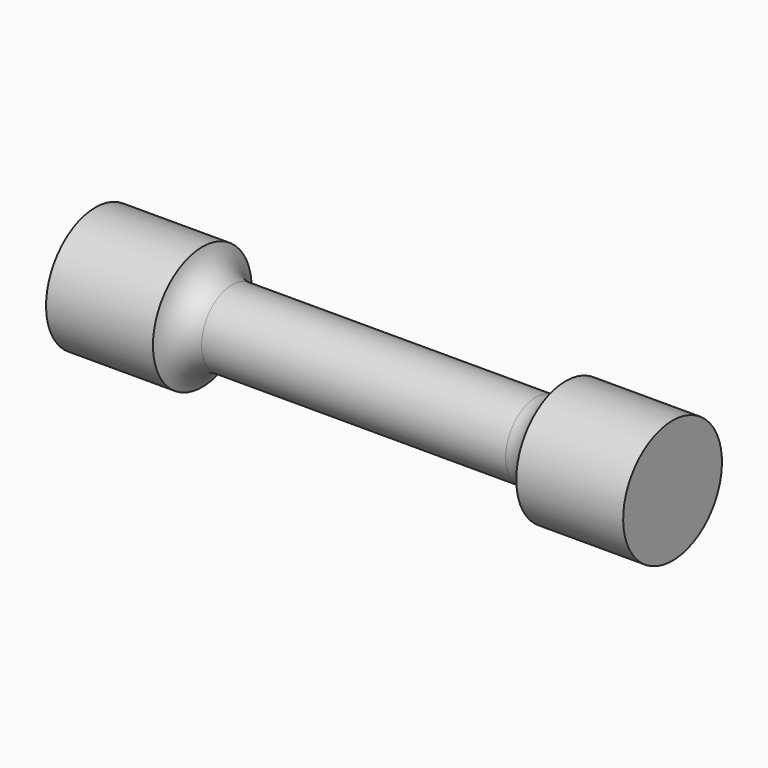
from build123d import *


with BuildPart() as f1:
    # F0 (on Front) → F1 (revolve)
    with BuildSketch(Plane.XZ):
        with BuildLine():
            Line((10, 2.5), (0, 2.5))
            Line((0, 2.5), (-10, 2.5))
            ThreePointArc((-10, 2.5), (-11.24939, 2.938263), (-11.95122, 4.060976))
            Line((-11.95122, 4.060976), (-18.982471, 4.060976))
            Line((-18.982471, 4.060976), (-18.982471, 0))
            Line((-18.982471, 0), (0, 0))
            Line((0, 0), (18.982471, 0))
            Line((18.982471, 0), (18.982471, 4.060976))
            Line((18.982471, 4.060976), (11.95122, 4.060976))
            ThreePointArc((11.95122, 4.060976), (11.24939, 2.938263), (10, 2.5))
        make_face()
    revolve(axis=Axis((-9.491236, 0, 0), (1, 0, 0)))


solid = f1.part
